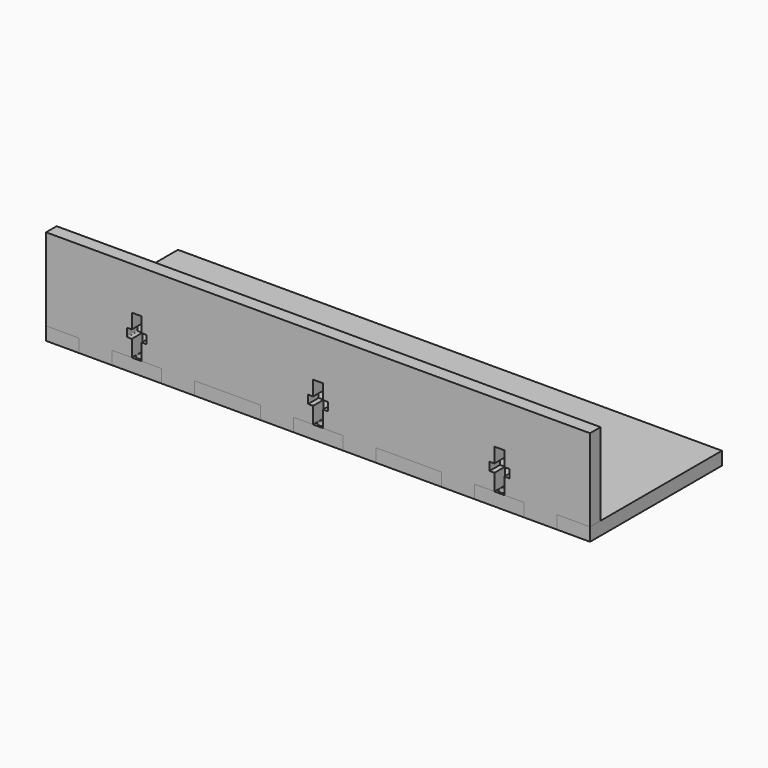
from build123d import *

# Parameters (mm, degrees)
F1_DEPTH = 4
F2_W     = 165
F2_H     = 50
F2_R     = 1.5
F3_DEPTH = 4


with BuildPart() as f1:
    # F0 (on Front) → F1 (new body)
    with BuildSketch(Plane.XZ):
        with BuildLine():
            Line((162.5, 25), (-2.5, 25))
            Line((-2.5, 25), (-2.5, 0))
            Line((-2.5, 0), (7.5, 0))
            Line((7.5, 0), (7.5, -4))
            Line((7.5, -4), (17.5, -4))
            Line((17.5, -4), (17.5, 0))
            Line((17.5, 0), (23.5, 0))
            Line((23.5, 0), (23.5, 5))
            Line((23.5, 5), (22.25, 5))
            ThreePointArc((22.25, 5), (22.073223, 5.073223), (22, 5.25))
            Line((22, 5.25), (22, 7.25))
            ThreePointArc((22, 7.25), (22.073223, 7.426777), (22.25, 7.5))
            Line((22.25, 7.5), (23.5, 7.5))
            Line((23.5, 7.5), (23.5, 12))
            Line((23.5, 12), (26.5, 12))
            Line((26.5, 12), (26.5, 7.5))
            Line((26.5, 7.5), (27.75, 7.5))
            ThreePointArc((27.75, 7.5), (27.926777, 7.426777), (28, 7.25))
            Line((28, 7.25), (28, 5.25))
            ThreePointArc((28, 5.25), (27.926777, 5.073223), (27.75, 5))
            Line((27.75, 5), (26.5, 5))
            Line((26.5, 5), (26.5, 0))
            Line((26.5, 0), (32.5, 0))
            Line((32.5, 0), (32.5, -4))
            Line((32.5, -4), (42.5, -4))
            Line((42.5, -4), (42.5, 0))
            Line((42.5, 0), (62.5, 0))
            Line((62.5, 0), (62.5, -4))
            Line((62.5, -4), (72.5, -4))
            Line((72.5, -4), (72.5, 0))
            Line((72.5, 0), (78.5, 0))
            Line((78.5, 0), (78.5, 5))
            Line((78.5, 5), (77, 5))
            Line((77, 5), (77, 7.5))
            Line((77, 7.5), (78.5, 7.5))
            Line((78.5, 7.5), (78.5, 12))
            Line((78.5, 12), (81.5, 12))
            Line((81.5, 12), (81.5, 7.5))
            Line((81.5, 7.5), (83, 7.5))
            Line((83, 7.5), (83, 5))
            Line((83, 5), (81.5, 5))
            Line((81.5, 5), (81.5, 0))
            Line((81.5, 0), (87.5, 0))
            Line((87.5, 0), (87.5, -4))
            Line((87.5, -4), (97.5, -4))
            Line((97.5, -4), (97.5, 0))
            Line((97.5, 0), (117.5, 0))
            Line((117.5, 0), (117.5, -4))
            Line((117.5, -4), (127.5, -4))
            Line((127.5, -4), (127.5, 0))
            Line((127.5, 0), (133.5, 0))
            Line((133.5, 0), (133.5, 5))
            Line((133.5, 5), (132, 5))
            Line((132, 5), (132, 7.5))
            Line((132, 7.5), (133.5, 7.5))
            Line((133.5, 7.5), (133.5, 12))
            Line((133.5, 12), (136.5, 12))
            Line((136.5, 12), (136.5, 7.5))
            Line((136.5, 7.5), (138, 7.5))
            Line((138, 7.5), (138, 5))
            Line((138, 5), (136.5, 5))
            Line((136.5, 5), (136.5, 0))
            Line((136.5, 0), (142.5, 0))
            Line((142.5, 0), (142.5, -4))
            Line((142.5, -4), (152.5, -4))
            Line((152.5, -4), (152.5, 0))
            Line((152.5, 0), (162.5, 0))
            Line((162.5, 0), (162.5, 25))
        make_face()
    extrude(amount=F1_DEPTH)


with BuildPart() as f3:
    # F2 (on face) → F3 (new body)
    with BuildSketch(Plane(origin=(0, 0, 0), x_dir=(1, 0, 0), z_dir=(0, 0, -1))):
        with Locations((80, -21)):
            Rectangle(F2_W, F2_H)
        with Locations((25, 2)):
            Circle(F2_R, mode=Mode.SUBTRACT)
        with Locations((80, 2)):
            Circle(F2_R, mode=Mode.SUBTRACT)
        with Locations((135, 2)):
            Circle(F2_R, mode=Mode.SUBTRACT)
    extrude(amount=F3_DEPTH)

    # F4: cut F1
    add(f1.part, mode=Mode.SUBTRACT)


solid = Compound([f1.part, f3.part])
